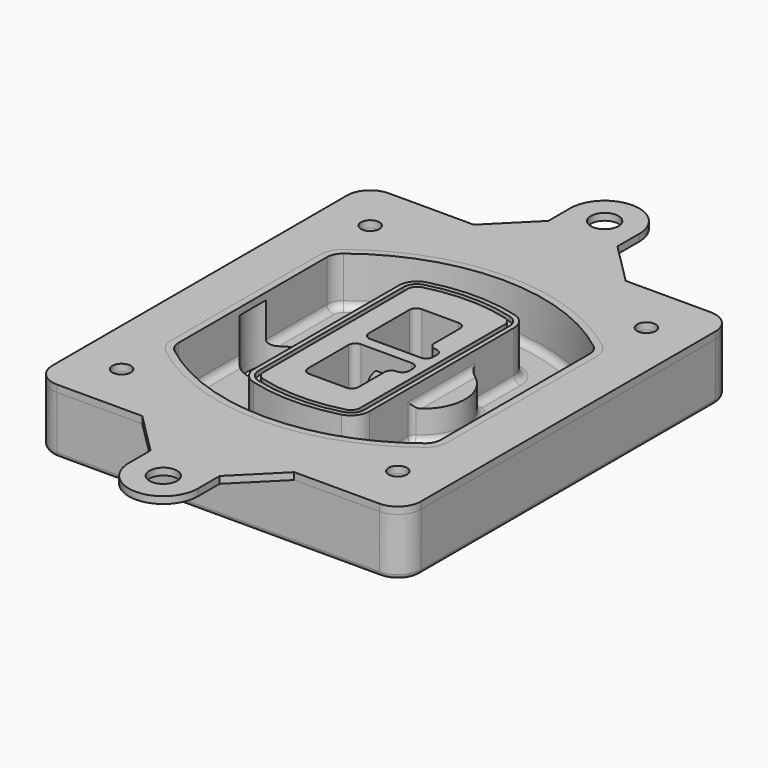
from build123d import *

# Parameters (mm, degrees)
F0_R      = 4
F1_DEPTH  = 25
F2_DEPTH  = 3
F3_DEPTH  = 18
F5_DEPTH  = 21
F6_DEPTH  = 2
F8_DEPTH  = 20
F9_DEPTH  = 16
F10_DEPTH = 25
F7_R      = 6
F7_R_2    = 4
F11_DEPTH = 6
F13_DEPTH = 9
F14_R     = 3
F15_R     = 2
F16_R     = 4
F16_R_2   = 6
F17_DEPTH = 3


with BuildPart() as f1:
    # F0 (on Top) → F1 (new body)
    with BuildSketch(Plane.XY):
        with BuildLine():
            ThreePointArc((-80, -80), (-77.0710678119, -87.0710678119), (-70, -90))
            Line((-70, -90), (70, -90))
            ThreePointArc((70, -90), (77.0710678119, -87.0710678119), (80, -80))
            Line((80, -80), (80, 80))
            ThreePointArc((80, 80), (77.0710678119, 87.0710678119), (70, 90))
            Line((70, 90), (-70, 90))
            ThreePointArc((-70, 90), (-77.0710678119, 87.0710678119), (-80, 80))
            Line((-80, 80), (-80, -80))
        make_face()
        with Locations((-60, -67.5)):
            Circle(F0_R, mode=Mode.SUBTRACT)
        with Locations((60, -67.5)):
            Circle(F0_R, mode=Mode.SUBTRACT)
        with Locations((-60, 67.5)):
            Circle(F0_R, mode=Mode.SUBTRACT)
        with BuildLine():
            ThreePointArc((-64, 40.2934422872), (-62.5820384798, 46.4328484224), (-58.6153846154, 51.3286200352))
            ThreePointArc((-58.6153846154, 51.3286200352), (0, 71.5), (58.6153846154, 51.3286200352))
            ThreePointArc((58.6153846154, 51.3286200352), (62.5820384798, 46.4328484224), (64, 40.2934422872))
            Line((64, 40.2934422872), (64, -40.2934422872))
            ThreePointArc((64, -40.2934422872), (62.5820384798, -46.4328484224), (58.6153846154, -51.3286200352))
            ThreePointArc((58.6153846154, -51.3286200352), (0, -71.5), (-58.6153846154, -51.3286200352))
            ThreePointArc((-58.6153846154, -51.3286200352), (-62.5820384798, -46.4328484224), (-64, -40.2934422872))
            Line((-64, -40.2934422872), (-64, 40.2934422872))
        make_face(mode=Mode.SUBTRACT)
        with Locations((60, 67.5)):
            Circle(F0_R, mode=Mode.SUBTRACT)
        with BuildLine():
            ThreePointArc((58.6153846154, 51.3286200352), (0, 71.5), (-58.6153846154, 51.3286200352))
            ThreePointArc((-58.6153846154, 51.3286200352), (-62.5820384798, 46.4328484224), (-64, 40.2934422872))
            Line((-64, 40.2934422872), (-64, -40.2934422872))
            ThreePointArc((-64, -40.2934422872), (-62.5820384798, -46.4328484224), (-58.6153846154, -51.3286200352))
            ThreePointArc((-58.6153846154, -51.3286200352), (0, -71.5), (58.6153846154, -51.3286200352))
            ThreePointArc((58.6153846154, -51.3286200352), (62.5820384798, -46.4328484224), (64, -40.2934422872))
            Line((64, -40.2934422872), (64, 40.2934422872))
            ThreePointArc((64, 40.2934422872), (62.5820384798, 46.4328484224), (58.6153846154, 51.3286200352))
        make_face()
        with BuildLine():
            Line((-60, -40.2934422872), (-60, 40.2934422872))
            ThreePointArc((-60, 40.2934422872), (-58.9871703427, 44.6787323838), (-56.1538461538, 48.1757121072))
            ThreePointArc((-56.1538461538, 48.1757121072), (0, 67.5), (56.1538461538, 48.1757121072))
            ThreePointArc((56.1538461538, 48.1757121072), (58.9871703427, 44.6787323838), (60, 40.2934422872))
            Line((60, 40.2934422872), (60, -40.2934422872))
            ThreePointArc((60, -40.2934422872), (58.9871703427, -44.6787323838), (56.1538461538, -48.1757121072))
            ThreePointArc((56.1538461538, -48.1757121072), (0, -67.5), (-56.1538461538, -48.1757121072))
            ThreePointArc((-56.1538461538, -48.1757121072), (-58.9871703427, -44.6787323838), (-60, -40.2934422872))
        make_face(mode=Mode.SUBTRACT)
        with BuildLine():
            ThreePointArc((-56.1538461538, 48.1757121072), (-58.9871703427, 44.6787323838), (-60, 40.2934422872))
            Line((-60, 40.2934422872), (-60, -40.2934422872))
            ThreePointArc((-60, -40.2934422872), (-58.9871703427, -44.6787323838), (-56.1538461538, -48.1757121072))
            ThreePointArc((-56.1538461538, -48.1757121072), (0, -67.5), (56.1538461538, -48.1757121072))
            ThreePointArc((56.1538461538, -48.1757121072), (58.9871703427, -44.6787323838), (60, -40.2934422872))
            Line((60, -40.2934422872), (60, 40.2934422872))
            ThreePointArc((60, 40.2934422872), (58.9871703427, 44.6787323838), (56.1538461538, 48.1757121072))
            ThreePointArc((56.1538461538, 48.1757121072), (0, 67.5), (-56.1538461538, 48.1757121072))
        make_face()
        with BuildLine():
            ThreePointArc((54.3076923077, 45.8110311612), (56.2910192399, 43.3631453548), (57, 40.2934422872))
            Line((57, 40.2934422872), (57, -40.2934422872))
            ThreePointArc((57, -40.2934422872), (56.2910192399, -43.3631453548), (54.3076923077, -45.8110311612))
            ThreePointArc((54.3076923077, -45.8110311612), (0, -64.5), (-54.3076923077, -45.8110311612))
            ThreePointArc((-54.3076923077, -45.8110311612), (-56.2910192399, -43.3631453548), (-57, -40.2934422872))
            Line((-57, -40.2934422872), (-57, 40.2934422872))
            ThreePointArc((-57, 40.2934422872), (-56.2910192399, 43.3631453548), (-54.3076923077, 45.8110311612))
            ThreePointArc((-54.3076923077, 45.8110311612), (0, 64.5), (54.3076923077, 45.8110311612))
        make_face(mode=Mode.SUBTRACT)
        with BuildLine():
            Line((57, -40.2934422872), (57, 40.2934422872))
            ThreePointArc((57, 40.2934422872), (56.2910192399, 43.3631453548), (54.3076923077, 45.8110311612))
            ThreePointArc((54.3076923077, 45.8110311612), (0, 64.5), (-54.3076923077, 45.8110311612))
            ThreePointArc((-54.3076923077, 45.8110311612), (-56.2910192399, 43.3631453548), (-57, 40.2934422872))
            Line((-57, 40.2934422872), (-57, -40.2934422872))
            ThreePointArc((-57, -40.2934422872), (-56.2910192399, -43.3631453548), (-54.3076923077, -45.8110311612))
            ThreePointArc((-54.3076923077, -45.8110311612), (0, -64.5), (54.3076923077, -45.8110311612))
            ThreePointArc((54.3076923077, -45.8110311612), (56.2910192399, -43.3631453548), (57, -40.2934422872))
        make_face()
    extrude(amount=-F1_DEPTH)

    # F0 (on Top) → F2 (join)
    with BuildSketch(Plane.XY):
        with BuildLine():
            ThreePointArc((-56.1538461538, 48.1757121072), (-58.9871703427, 44.6787323838), (-60, 40.2934422872))
            Line((-60, 40.2934422872), (-60, -40.2934422872))
            ThreePointArc((-60, -40.2934422872), (-58.9871703427, -44.6787323838), (-56.1538461538, -48.1757121072))
            ThreePointArc((-56.1538461538, -48.1757121072), (0, -67.5), (56.1538461538, -48.1757121072))
            ThreePointArc((56.1538461538, -48.1757121072), (58.9871703427, -44.6787323838), (60, -40.2934422872))
            Line((60, -40.2934422872), (60, 40.2934422872))
            ThreePointArc((60, 40.2934422872), (58.9871703427, 44.6787323838), (56.1538461538, 48.1757121072))
            ThreePointArc((56.1538461538, 48.1757121072), (0, 67.5), (-56.1538461538, 48.1757121072))
        make_face()
        with BuildLine():
            ThreePointArc((54.3076923077, 45.8110311612), (56.2910192399, 43.3631453548), (57, 40.2934422872))
            Line((57, 40.2934422872), (57, -40.2934422872))
            ThreePointArc((57, -40.2934422872), (56.2910192399, -43.3631453548), (54.3076923077, -45.8110311612))
            ThreePointArc((54.3076923077, -45.8110311612), (0, -64.5), (-54.3076923077, -45.8110311612))
            ThreePointArc((-54.3076923077, -45.8110311612), (-56.2910192399, -43.3631453548), (-57, -40.2934422872))
            Line((-57, -40.2934422872), (-57, 40.2934422872))
            ThreePointArc((-57, 40.2934422872), (-56.2910192399, 43.3631453548), (-54.3076923077, 45.8110311612))
            ThreePointArc((-54.3076923077, 45.8110311612), (0, 64.5), (54.3076923077, 45.8110311612))
        make_face(mode=Mode.SUBTRACT)
    extrude(amount=F2_DEPTH)

    # F0 (on Top) → F3 (cut)
    with BuildSketch(Plane.XY):
        with BuildLine():
            Line((57, -40.2934422872), (57, 40.2934422872))
            ThreePointArc((57, 40.2934422872), (56.2910192399, 43.3631453548), (54.3076923077, 45.8110311612))
            ThreePointArc((54.3076923077, 45.8110311612), (0, 64.5), (-54.3076923077, 45.8110311612))
            ThreePointArc((-54.3076923077, 45.8110311612), (-56.2910192399, 43.3631453548), (-57, 40.2934422872))
            Line((-57, 40.2934422872), (-57, -40.2934422872))
            ThreePointArc((-57, -40.2934422872), (-56.2910192399, -43.3631453548), (-54.3076923077, -45.8110311612))
            ThreePointArc((-54.3076923077, -45.8110311612), (0, -64.5), (54.3076923077, -45.8110311612))
            ThreePointArc((54.3076923077, -45.8110311612), (56.2910192399, -43.3631453548), (57, -40.2934422872))
        make_face()
    extrude(amount=-F3_DEPTH, mode=Mode.SUBTRACT)

    # F4 (on face) → F5 (join, through all)
    with BuildSketch(Plane.XY.offset(3)):
        with BuildLine():
            ThreePointArc((-25, -39.2465276821), (-23.3511545998, -44.1109737193), (-19.0842911877, -46.9702398883))
            ThreePointArc((-19.0842911877, -46.9702398883), (0, -49.5), (19.0842911877, -46.9702398883))
            ThreePointArc((19.0842911877, -46.9702398883), (23.3511545998, -44.1109737193), (25, -39.2465276821))
            Line((25, -39.2465276821), (25, 39.2465276821))
            ThreePointArc((25, 39.2465276821), (23.3511545998, 44.1109737193), (19.0842911877, 46.9702398883))
            ThreePointArc((19.0842911877, 46.9702398883), (0, 49.5), (-19.0842911877, 46.9702398883))
            ThreePointArc((-19.0842911877, 46.9702398883), (-23.3511545998, 44.1109737193), (-25, 39.2465276821))
            Line((-25, 39.2465276821), (-25, -39.2465276821))
        make_face()
        with BuildLine():
            ThreePointArc((18.5632183908, 45.0393118368), (21.7633659499, 42.89486221), (23, 39.2465276821))
            Line((23, 39.2465276821), (23, -39.2465276821))
            ThreePointArc((23, -39.2465276821), (21.7633659499, -42.89486221), (18.5632183908, -45.0393118368))
            ThreePointArc((18.5632183908, -45.0393118368), (0, -47.5), (-18.5632183908, -45.0393118368))
            ThreePointArc((-18.5632183908, -45.0393118368), (-21.7633659499, -42.89486221), (-23, -39.2465276821))
            Line((-23, -39.2465276821), (-23, 39.2465276821))
            ThreePointArc((-23, 39.2465276821), (-21.7633659499, 42.89486221), (-18.5632183908, 45.0393118368))
            ThreePointArc((-18.5632183908, 45.0393118368), (0, 47.5), (18.5632183908, 45.0393118368))
        make_face(mode=Mode.SUBTRACT)
        with BuildLine():
            Line((23, -39.2465276821), (23, 39.2465276821))
            ThreePointArc((23, 39.2465276821), (21.7633659499, 42.89486221), (18.5632183908, 45.0393118368))
            ThreePointArc((18.5632183908, 45.0393118368), (0, 47.5), (-18.5632183908, 45.0393118368))
            ThreePointArc((-18.5632183908, 45.0393118368), (-21.7633659499, 42.89486221), (-23, 39.2465276821))
            Line((-23, 39.2465276821), (-23, -39.2465276821))
            ThreePointArc((-23, -39.2465276821), (-21.7633659499, -42.89486221), (-18.5632183908, -45.0393118368))
            ThreePointArc((-18.5632183908, -45.0393118368), (0, -47.5), (18.5632183908, -45.0393118368))
            ThreePointArc((18.5632183908, -45.0393118368), (21.7633659499, -42.89486221), (23, -39.2465276821))
        make_face()
        with BuildLine():
            ThreePointArc((18.0421455939, 43.1083837852), (20.1755772999, 41.6787507007), (21, 39.2465276821))
            Line((21, 39.2465276821), (21, -39.2465276821))
            ThreePointArc((21, -39.2465276821), (20.1755772999, -41.6787507007), (18.0421455939, -43.1083837852))
            ThreePointArc((18.0421455939, -43.1083837852), (0, -45.5), (-18.0421455939, -43.1083837852))
            ThreePointArc((-18.0421455939, -43.1083837852), (-20.1755772999, -41.6787507007), (-21, -39.2465276821))
            Line((-21, -39.2465276821), (-21, 39.2465276821))
            ThreePointArc((-21, 39.2465276821), (-20.1755772999, 41.6787507007), (-18.0421455939, 43.1083837852))
            ThreePointArc((-18.0421455939, 43.1083837852), (0, 45.5), (18.0421455939, 43.1083837852))
        make_face(mode=Mode.SUBTRACT)
        with BuildLine():
            Line((21, -39.2465276821), (21, 39.2465276821))
            ThreePointArc((21, 39.2465276821), (20.1755772999, 41.6787507007), (18.0421455939, 43.1083837852))
            ThreePointArc((18.0421455939, 43.1083837852), (0, 45.5), (-18.0421455939, 43.1083837852))
            ThreePointArc((-18.0421455939, 43.1083837852), (-20.1755772999, 41.6787507007), (-21, 39.2465276821))
            Line((-21, 39.2465276821), (-21, -39.2465276821))
            ThreePointArc((-21, -39.2465276821), (-20.1755772999, -41.6787507007), (-18.0421455939, -43.1083837852))
            ThreePointArc((-18.0421455939, -43.1083837852), (0, -45.5), (18.0421455939, -43.1083837852))
            ThreePointArc((18.0421455939, -43.1083837852), (20.1755772999, -41.6787507007), (21, -39.2465276821))
        make_face()
        with BuildLine():
            Line((-8, -2.5), (14, -2.5))
            ThreePointArc((14, -2.5), (16.1213203436, -3.3786796564), (17, -5.5))
            Line((17, -5.5), (17, -7.5))
            ThreePointArc((17, -7.5), (16.1213203436, -9.6213203436), (14, -10.5))
            ThreePointArc((14, -10.5), (11.8786796564, -11.3786796564), (11, -13.5))
            Line((11, -13.5), (11, -27.5))
            ThreePointArc((11, -27.5), (10.1213203436, -29.6213203436), (8, -30.5))
            Line((8, -30.5), (-8, -30.5))
            ThreePointArc((-8, -30.5), (-10.1213203436, -29.6213203436), (-11, -27.5))
            Line((-11, -27.5), (-11, -5.5))
            ThreePointArc((-11, -5.5), (-10.1213203436, -3.3786796564), (-8, -2.5))
        make_face(mode=Mode.SUBTRACT)
        with BuildLine():
            ThreePointArc((-8, 2.5), (-10.1213203436, 3.3786796564), (-11, 5.5))
            Line((-11, 5.5), (-11, 27.5))
            ThreePointArc((-11, 27.5), (-10.1213203436, 29.6213203436), (-8, 30.5))
            Line((-8, 30.5), (8, 30.5))
            ThreePointArc((8, 30.5), (10.1213203436, 29.6213203436), (11, 27.5))
            Line((11, 27.5), (11, 13.5))
            ThreePointArc((11, 13.5), (11.8786796564, 11.3786796564), (14, 10.5))
            ThreePointArc((14, 10.5), (16.1213203436, 9.6213203436), (17, 7.5))
            Line((17, 7.5), (17, 5.5))
            ThreePointArc((17, 5.5), (16.1213203436, 3.3786796564), (14, 2.5))
            Line((14, 2.5), (-8, 2.5))
        make_face(mode=Mode.SUBTRACT)
    extrude(amount=-F5_DEPTH)

    # F4 (on face) → F6 (cut)
    with BuildSketch(Plane.XY.offset(3)):
        with BuildLine():
            Line((23, -39.2465276821), (23, 39.2465276821))
            ThreePointArc((23, 39.2465276821), (21.7633659499, 42.89486221), (18.5632183908, 45.0393118368))
            ThreePointArc((18.5632183908, 45.0393118368), (0, 47.5), (-18.5632183908, 45.0393118368))
            ThreePointArc((-18.5632183908, 45.0393118368), (-21.7633659499, 42.89486221), (-23, 39.2465276821))
            Line((-23, 39.2465276821), (-23, -39.2465276821))
            ThreePointArc((-23, -39.2465276821), (-21.7633659499, -42.89486221), (-18.5632183908, -45.0393118368))
            ThreePointArc((-18.5632183908, -45.0393118368), (0, -47.5), (18.5632183908, -45.0393118368))
            ThreePointArc((18.5632183908, -45.0393118368), (21.7633659499, -42.89486221), (23, -39.2465276821))
        make_face()
        with BuildLine():
            ThreePointArc((18.0421455939, 43.1083837852), (20.1755772999, 41.6787507007), (21, 39.2465276821))
            Line((21, 39.2465276821), (21, -39.2465276821))
            ThreePointArc((21, -39.2465276821), (20.1755772999, -41.6787507007), (18.0421455939, -43.1083837852))
            ThreePointArc((18.0421455939, -43.1083837852), (0, -45.5), (-18.0421455939, -43.1083837852))
            ThreePointArc((-18.0421455939, -43.1083837852), (-20.1755772999, -41.6787507007), (-21, -39.2465276821))
            Line((-21, -39.2465276821), (-21, 39.2465276821))
            ThreePointArc((-21, 39.2465276821), (-20.1755772999, 41.6787507007), (-18.0421455939, 43.1083837852))
            ThreePointArc((-18.0421455939, 43.1083837852), (0, 45.5), (18.0421455939, 43.1083837852))
        make_face(mode=Mode.SUBTRACT)
    extrude(amount=-F6_DEPTH, mode=Mode.SUBTRACT)

    # F7 (on face) → F8 (join)
    with BuildSketch(Plane(origin=(0, 0, -25), x_dir=(1, 0, 0), z_dir=(0, 0, -1))):
        with BuildLine():
            ThreePointArc((3.28842436, 0), (16.7567035675, 13.4682792075), (30.224982775, 0))
            Line((30.224982775, 0), (35.224982775, 0))
            ThreePointArc((35.224982775, 0), (16.7567035675, 18.4682792075), (-1.71157564, 0))
            Line((-1.71157564, 0), (3.28842436, 0))
        make_face()
        with BuildLine():
            Line((3.28842436, 0), (30.224982775, 0))
            ThreePointArc((30.224982775, 0), (16.7567035675, 13.4682792075), (3.28842436, 0))
        make_face()
        with BuildLine():
            ThreePointArc((3.28842436, 0), (16.7567035675, -13.4682792075), (30.224982775, 0))
            Line((30.224982775, 0), (3.28842436, 0))
        make_face()
        with BuildLine():
            Line((35.224982775, 0), (30.224982775, 0))
            ThreePointArc((30.224982775, 0), (16.7567035675, -13.4682792075), (3.28842436, 0))
            Line((3.28842436, 0), (-1.71157564, 0))
            ThreePointArc((-1.71157564, 0), (16.7567035675, -18.4682792075), (35.224982775, 0))
        make_face()
    extrude(amount=-F8_DEPTH)

    # F7 (on face) → F9 (cut)
    with BuildSketch(Plane(origin=(0, 0, -25), x_dir=(1, 0, 0), z_dir=(0, 0, -1))):
        with BuildLine():
            Line((3.28842436, 0), (30.224982775, 0))
            ThreePointArc((30.224982775, 0), (16.7567035675, 13.4682792075), (3.28842436, 0))
        make_face()
        with BuildLine():
            ThreePointArc((3.28842436, 0), (16.7567035675, -13.4682792075), (30.224982775, 0))
            Line((30.224982775, 0), (3.28842436, 0))
        make_face()
    extrude(amount=-F9_DEPTH, mode=Mode.SUBTRACT)

    # F7 (on face) → F10 (cut)
    with BuildSketch(Plane(origin=(0, 0, -25), x_dir=(1, 0, 0), z_dir=(0, 0, -1))):
        with BuildLine():
            Line((-59.0318229325, 0), (-32.0952645175, 0))
            ThreePointArc((-32.0952645175, 0), (-45.563543725, 13.4682792075), (-59.0318229325, 0))
        make_face()
        with BuildLine():
            ThreePointArc((-59.0318229325, 0), (-45.563543725, -13.4682792075), (-32.0952645175, 0))
            Line((-32.0952645175, 0), (-59.0318229325, 0))
        make_face()
    extrude(amount=-F10_DEPTH, mode=Mode.SUBTRACT)

    # F7 (on face) → F11 (cut)
    with BuildSketch(Plane(origin=(0, 0, -25), x_dir=(1, 0, 0), z_dir=(0, 0, -1))):
        with Locations((60, -67.5)):
            Circle(F7_R)
        with Locations((60, -67.5)):
            Circle(F7_R_2, mode=Mode.SUBTRACT)
        with Locations((60, -67.5)):
            Circle(F7_R)
        with Locations((60, -67.5)):
            Circle(F7_R_2, mode=Mode.SUBTRACT)
        with Locations((-60, -67.5)):
            Circle(F7_R)
        with Locations((-60, -67.5)):
            Circle(F7_R_2, mode=Mode.SUBTRACT)
        with Locations((-60, -67.5)):
            Circle(F7_R)
        with Locations((-60, -67.5)):
            Circle(F7_R_2, mode=Mode.SUBTRACT)
        with Locations((-60, 67.5)):
            Circle(F7_R)
        with Locations((-60, 67.5)):
            Circle(F7_R_2, mode=Mode.SUBTRACT)
        with Locations((-60, 67.5)):
            Circle(F7_R)
        with Locations((-60, 67.5)):
            Circle(F7_R_2, mode=Mode.SUBTRACT)
        with Locations((60, 67.5)):
            Circle(F7_R)
        with Locations((60, 67.5)):
            Circle(F7_R_2, mode=Mode.SUBTRACT)
        with Locations((60, 67.5)):
            Circle(F7_R)
        with Locations((60, 67.5)):
            Circle(F7_R_2, mode=Mode.SUBTRACT)
    extrude(amount=-F11_DEPTH, mode=Mode.SUBTRACT)

    # F12 (on face) → F13 (cut, through all)
    with BuildSketch(Plane(origin=(0, 0, -9), x_dir=(1, 0, 0), z_dir=(0, 0, -1))):
        with BuildLine():
            Line((11, 13.5), (11, 17.5481537753))
            ThreePointArc((11, 17.5481537753), (2.5696536419, 11.8239143813), (-1.5415842455, 2.5))
            Line((-1.5415842455, 2.5), (3.5224848595, 2.5))
            ThreePointArc((3.5224848595, 2.5), (6.1857188154, 8.3455872281), (11.2536447004, 12.2927168648))
            ThreePointArc((11.2536447004, 12.2927168648), (11.0640958889, 12.8831798879), (11, 13.5))
        make_face()
        with BuildLine():
            ThreePointArc((11.2536447004, -12.2927168648), (6.1857188154, -8.3455872281), (3.5224848595, -2.5))
            Line((3.5224848595, -2.5), (-1.5415842455, -2.5))
            ThreePointArc((-1.5415842455, -2.5), (2.5696536419, -11.8239143813), (11, -17.5481537753))
            Line((11, -17.5481537753), (11, -13.5))
            ThreePointArc((11, -13.5), (11.0640958889, -12.8831798879), (11.2536447004, -12.2927168648))
        make_face()
        with BuildLine():
            ThreePointArc((11.2536447004, 12.2927168648), (6.1857188154, 8.3455872281), (3.5224848595, 2.5))
            Line((3.5224848595, 2.5), (14, 2.5))
            ThreePointArc((14, 2.5), (16.1213203436, 3.3786796564), (17, 5.5))
            Line((17, 5.5), (17, 7.5))
            ThreePointArc((17, 7.5), (16.1213203436, 9.6213203436), (14, 10.5))
            ThreePointArc((14, 10.5), (12.3601599782, 10.9878446101), (11.2536447004, 12.2927168648))
        make_face()
        with BuildLine():
            Line((14, -2.5), (3.5224848595, -2.5))
            ThreePointArc((3.5224848595, -2.5), (6.1857188154, -8.3455872281), (11.2536447004, -12.2927168648))
            ThreePointArc((11.2536447004, -12.2927168648), (12.3601599782, -10.9878446101), (14, -10.5))
            ThreePointArc((14, -10.5), (16.1213203436, -9.6213203436), (17, -7.5))
            Line((17, -7.5), (17, -5.5))
            ThreePointArc((17, -5.5), (16.1213203436, -3.3786796564), (14, -2.5))
        make_face()
    extrude(amount=F13_DEPTH, mode=Mode.SUBTRACT)

    # F14
    f14_edges = [f1.edges().sort_by_distance(p)[0] for p in [
        (-57, -23.703476, -18),
        (-57, 23.703476, -18),
        (25, 0, -5),
        (25, 16.526506, -11.5),
        (25, -16.526506, -11.5),
        (25, -27.886517, -18),
        (35.224983, 0, -18),
    ]]
    fillet(f14_edges, radius=F14_R)

    # F15
    f15_edges = [f1.edges().sort_by_distance(p)[0] for p in [
        (0, -90, -25),
    ]]
    fillet(f15_edges, radius=F15_R)


with BuildPart() as f17:
    # F16 (on face) → F17 (new body, through all)
    with BuildSketch(Plane.XY):
        with BuildLine():
            Line((-32.9989270034, 90), (-70, 90))
            ThreePointArc((-70, 90), (-77.0710678119, 87.0710678119), (-80, 80))
            Line((-80, 80), (-80, -80))
            ThreePointArc((-80, -80), (-77.0710678119, -87.0710678119), (-70, -90))
            Line((-70, -90), (-32.9989270034, -90))
            Line((-32.9989270034, -90), (33, -90))
            Line((33, -90), (70, -90))
            ThreePointArc((70, -90), (77.0710678119, -87.0710678119), (80, -80))
            Line((80, -80), (80, 80))
            ThreePointArc((80, 80), (77.0710678119, 87.0710678119), (70, 90))
            Line((70, 90), (33, 90))
            Line((33, 90), (-32.9989270034, 90))
        make_face()
        with Locations((-60, -67.5)):
            Circle(F16_R, mode=Mode.SUBTRACT)
        with Locations((60, -67.5)):
            Circle(F16_R, mode=Mode.SUBTRACT)
        with Locations((-60, 67.5)):
            Circle(F16_R, mode=Mode.SUBTRACT)
        with BuildLine():
            ThreePointArc((56.1538461538, -48.1757121072), (0, -67.5), (-56.1538461538, -48.1757121072))
            ThreePointArc((-56.1538461538, -48.1757121072), (-58.9871703427, -44.6787323838), (-60, -40.2934422872))
            Line((-60, -40.2934422872), (-60, 40.2934422872))
            ThreePointArc((-60, 40.2934422872), (-58.9871703427, 44.6787323838), (-56.1538461538, 48.1757121072))
            ThreePointArc((-56.1538461538, 48.1757121072), (0, 67.5), (56.1538461538, 48.1757121072))
            ThreePointArc((56.1538461538, 48.1757121072), (58.9871703427, 44.6787323838), (60, 40.2934422872))
            Line((60, 40.2934422872), (60, -40.2934422872))
            ThreePointArc((60, -40.2934422872), (58.9871703427, -44.6787323838), (56.1538461538, -48.1757121072))
        make_face(mode=Mode.SUBTRACT)
        with Locations((60, 67.5)):
            Circle(F16_R, mode=Mode.SUBTRACT)
        with BuildLine():
            Line((-14.9989270034, 108), (-32.9989270034, 90))
            Line((-32.9989270034, 90), (33, 90))
            Line((33, 90), (15, 108))
            Line((15, 108), (15, 119.8205877759))
            ThreePointArc((15, 119.8205877759), (0.0897077163, 134.8203195244), (-14.9989270034, 120))
            Line((-14.9989270034, 120), (-14.9989270034, 108))
        make_face()
        with Locations((0, 119.8205877759)):
            Circle(F16_R_2, mode=Mode.SUBTRACT)
        with BuildLine():
            Line((33, -90), (-32.9989270034, -90))
            Line((-32.9989270034, -90), (-14.9989270034, -108))
            Line((-14.9989270034, -108), (-14.9989270034, -120))
            ThreePointArc((-14.9989270034, -120), (0.0897077163, -134.8203195244), (15, -119.8205877759))
            Line((15, -119.8205877759), (15, -108))
            Line((15, -108), (33, -90))
        make_face()
        with Locations((0, -119.8205877759)):
            Circle(F16_R_2, mode=Mode.SUBTRACT)
    extrude(amount=F17_DEPTH)


solid = Compound([f1.part, f17.part])
